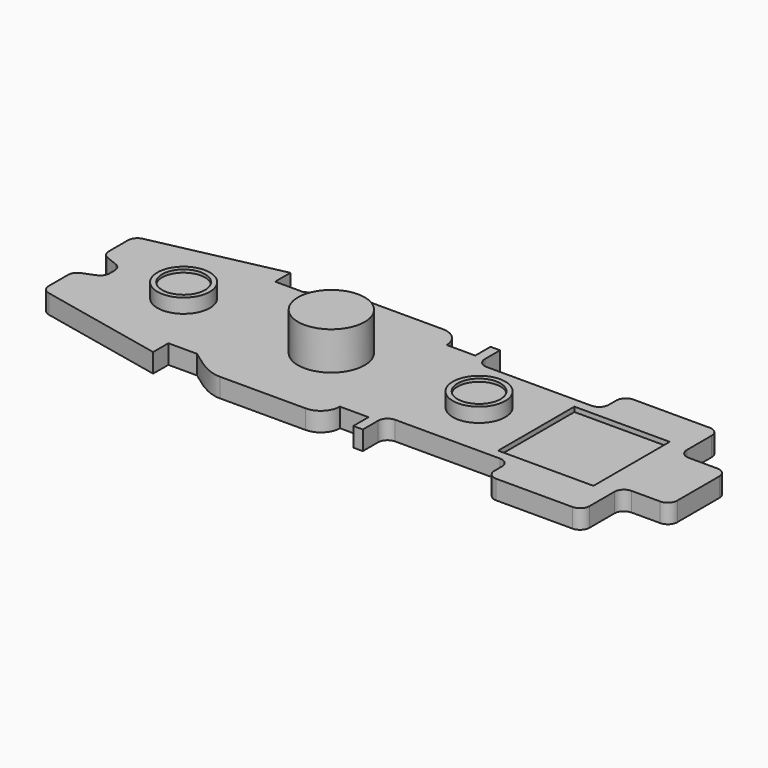
from build123d import *

# Parameters (mm, degrees)
F1_DEPTH  = 2
F2_R      = 1
F4_DEPTH  = 0.5
F5_R      = 2.75
F6_DEPTH  = 1.5
F7_R      = 2.25
F8_DEPTH  = 0.3
F9_R      = 3.5
F10_DEPTH = 2.5


with BuildPart() as f1:
    # F0 (on Top) → F1 (new body)
    with BuildSketch(Plane.XY):
        with BuildLine():
            Line((27, 4.75), (27, 9))
            Line((27, 9), (17, 9))
            Line((17, 9), (17, 7))
            ThreePointArc((17, 7), (16.707107, 6.292893), (16, 6))
            Line((16, 6), (5, 6))
            ThreePointArc((5, 6), (4.292893, 6.292893), (4, 7))
            Line((4, 7), (4, 9))
            Line((4, 9), (3, 9))
            Line((3, 9), (3, 7))
            Line((3, 7), (0, 7))
            ThreePointArc((0, 7), (-0.585786, 8.414214), (-2, 9))
            Line((-2, 9), (-11, 9))
            add(Edge.make_bspline(
                [(-15, 7), (-13.666667, 8), (-12.333333, 9), (-11, 9)],
                knots=[0, 0, 0, 0, 4.472136, 4.472136, 4.472136, 4.472136], degree=3))
            Line((-15, 7), (-18, 7))
            Line((-18, 7), (-18, 9))
            Line((-18, 9), (-32, 6))
            Line((-32, 6), (-32, 2))
            Line((-32, 2), (-30.128609, 1.251444))
            ThreePointArc((-30.128609, 1.251444), (-29.671933, 0.883596), (-29.5, 0.322967))
            Line((-29.5, 0.322967), (-29.5, 0))
            Line((-29.5, 0), (-29.5, -0.322967))
            ThreePointArc((-29.5, -0.322967), (-29.671933, -0.883596), (-30.128609, -1.251444))
            Line((-30.128609, -1.251444), (-31.371391, -1.748556))
            ThreePointArc((-31.371391, -1.748556), (-31.828067, -2.116404), (-32, -2.677033))
            Line((-32, -2.677033), (-32, -5.191584))
            ThreePointArc((-32, -5.191584), (-31.777666, -5.820262), (-31.209529, -6.169387))
            Line((-31.209529, -6.169387), (-18, -9))
            Line((-18, -9), (-18, -7))
            Line((-18, -7), (-15, -7))
            add(Edge.make_bspline(
                [(-15, -7), (-13.666667, -8), (-12.333333, -9), (-11, -9)],
                knots=[0, 0, 0, 0, 4.472136, 4.472136, 4.472136, 4.472136], degree=3))
            Line((-11, -9), (-2, -9))
            ThreePointArc((-2, -9), (-0.585786, -8.414214), (0, -7))
            Line((0, -7), (3, -7))
            Line((3, -7), (3, -9))
            Line((3, -9), (4, -9))
            Line((4, -9), (4, -7))
            ThreePointArc((4, -7), (4.292893, -6.292893), (5, -6))
            Line((5, -6), (16, -6))
            ThreePointArc((16, -6), (16.707107, -6.292893), (17, -7))
            Line((17, -7), (17, -8))
            ThreePointArc((17, -8), (17.292893, -8.707107), (18, -9))
            Line((18, -9), (26, -9))
            ThreePointArc((26, -9), (26.707107, -8.707107), (27, -8))
            Line((27, -8), (27, -4.75))
            ThreePointArc((27, -4.75), (27.292893, -4.042893), (28, -3.75))
            Line((28, -3.75), (32, -3.75))
            Line((32, -3.75), (32, 0))
            Line((32, 0), (32, 3.75))
            Line((32, 3.75), (28, 3.75))
            ThreePointArc((28, 3.75), (27.292893, 4.042893), (27, 4.75))
        make_face()
    extrude(amount=F1_DEPTH)

    # F2
    f2_edges = [f1.edges().sort_by_distance(p)[0] for p in [
        (-32, 2, 1),
        (-32, 6, 1),
        (27, 9, 1),
        (17, 9, 1),
        (32, -3.75, 1),
        (32, 3.75, 1),
    ]]
    fillet(f2_edges, radius=F2_R)

    # F3 (on face) → F4 (cut)
    with BuildSketch(Plane.XY.offset(2)):
        Polygon((25, -5), (25, 0), (25, 5), (15, 5), (15, -5), align=None)
    extrude(amount=-F4_DEPTH, mode=Mode.SUBTRACT)

    # F5 (on face) → F6 (join)
    with BuildSketch(Plane.XY.offset(2)):
        with BuildLine():
            ThreePointArc((6.25, 0), (9, -2.75), (11.75, 0))
            ThreePointArc((11.75, 0), (9, 2.75), (6.25, 0))
        make_face()
        with Locations((-22, 0)):
            Circle(F5_R)
        with BuildLine():
            ThreePointArc((-10, 0), (-6.5, -3.5), (-3, 0))
            ThreePointArc((-3, 0), (-6.5, 3.5), (-10, 0))
        make_face()
    extrude(amount=F6_DEPTH)

    # F7 (on face) → F8 (cut)
    with BuildSketch(Plane.XY.offset(3.5)):
        with Locations((9, 0)):
            Circle(F7_R)
        with Locations((-22, 0)):
            Circle(F7_R)
    extrude(amount=-F8_DEPTH, mode=Mode.SUBTRACT)

    # F9 (on face) → F10 (join)
    with BuildSketch(Plane.XY.offset(3.5)):
        with Locations((-6.5, 0)):
            Circle(F9_R)
    extrude(amount=F10_DEPTH)


solid = f1.part
